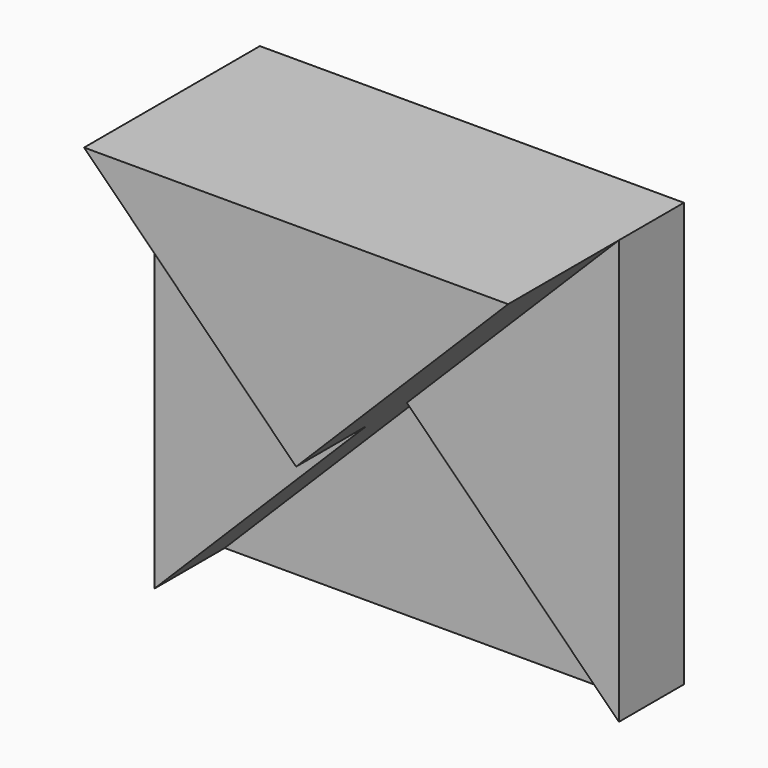
from build123d import *

# Parameters (mm, degrees)
F1_DEPTH = 25.4
F2_DEPTH = 15.24
F3_DEPTH = 9.398
F4_DEPTH = 5.08


with BuildPart() as f1:
    # F0 (on Front) → F1 (new body)
    with BuildSketch(Plane.XZ):
        Polygon((0, 0), (24.510982, 24.510982), (-24.510982, 24.510982), align=None)
    extrude(amount=F1_DEPTH)

    # F0 (on Front) → F2 (join)
    with BuildSketch(Plane.XZ):
        Polygon((-24.510982, 24.510982), (-24.510982, -24.510982), (0, 0), align=None)
    extrude(amount=F2_DEPTH)

    # F0 (on Front) → F3 (join)
    with BuildSketch(Plane.XZ):
        Polygon((0, 0), (24.510982, -24.510982), (24.510982, 24.510982), align=None)
    extrude(amount=F3_DEPTH)

    # F0 (on Front) → F4 (join)
    with BuildSketch(Plane.XZ):
        Polygon((-24.510982, -24.510982), (24.510982, -24.510982), (0, 0), align=None)
    extrude(amount=F4_DEPTH)


solid = f1.part
